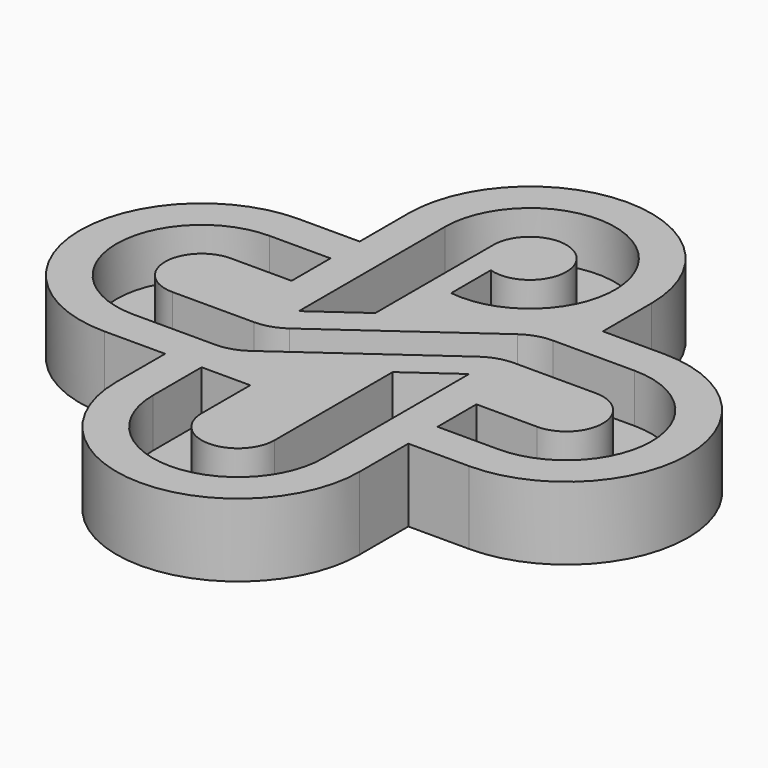
from build123d import *

# Parameters (mm, degrees)
PAD_DEPTH    = 3
POCKET_DEPTH = 2
FILLET_R     = 2
FILLET001_R  = 2
FILLET002_R  = 2
FILLET003_R  = 2


with BuildPart() as part:
    # Sketch → Pad (new body)
    with BuildSketch(Plane.XY):
        with BuildLine():
            ThreePointArc((5.000007, 7.500007), (0, 12.500023), (-5.000007, 7.500007))
            Line((-5.000007, 7.500007), (-5.000007, 5.000007))
            Line((-5.000007, 5.000007), (-7.500007, 5.000007))
            ThreePointArc((-7.500007, 5.000007), (-12.499997, 0), (-7.500007, -5.000007))
            Line((-7.500007, -5.000007), (-5.000007, -5.000007))
            Line((-5.000007, -5.000007), (-5.000007, -7.500007))
            ThreePointArc((-5.000007, -7.500007), (0, -12.500013), (5.000007, -7.500007))
            Line((5.000007, -7.500007), (5.000007, -5.000007))
            Line((5.000007, -5.000007), (7.500007, -5.000007))
            ThreePointArc((7.500007, -5.000007), (12.500003, 0), (7.500007, 5.000007))
            Line((5.000007, 5.000007), (7.500007, 5.000007))
            Line((5.000007, 7.500007), (5.000007, 5.000007))
        make_face()
    extrude(amount=PAD_DEPTH)

    # Sketch001 → Pocket (cut)
    with BuildSketch(Plane.XY.offset(3)):
        with BuildLine():
            ThreePointArc((-7.500007, 3.500007), (-10.999997, 0), (-7.500007, -3.500007))
            Line((-7.500007, -3.500007), (-3.500007, -3.500007))
            Line((-3.500007, -3.500007), (3.500007, 1.500007))
            Line((3.500007, 1.500007), (7.500007, 1.500007))
            ThreePointArc((7.499986, -1.500007), (9.000003, -1e-05), (7.500007, 1.500007))
            Line((7.499986, -1.500007), (5.000007, -1.500007))
            Line((5.000007, -1.500007), (5.000007, -3.500007))
            Line((5.000007, -3.500007), (7.499986, -3.500007))
            ThreePointArc((7.499986, -3.500007), (11.000003, -1e-05), (7.500007, 3.500007))
            Line((7.500007, 3.500007), (3.500007, 3.500007))
            Line((3.500007, 3.500007), (-3.500007, -1.500007))
            Line((-3.500007, -1.500007), (-7.500007, -1.500007))
            ThreePointArc((-7.500007, 1.500007), (-8.999997, 0), (-7.500007, -1.500007))
            Line((-7.500007, 1.500007), (-5.000007, 1.500007))
            Line((-5.000007, 3.500007), (-5.000007, 1.500007))
            Line((-7.500007, 3.500007), (-5.000007, 3.500007))
        make_face()
        with BuildLine():
            Line((-3.500007, -5.000007), (-3.500007, -7.500007))
            ThreePointArc((-3.500007, -7.500007), (0, -11.000013), (3.500007, -7.500007))
            Line((3.500007, -7.500007), (3.500007, 0))
            Line((3.500007, 0), (1.500007, -1.428573))
            Line((1.500007, -1.428573), (1.500007, -7.500007))
            ThreePointArc((-1.500007, -7.500007), (0, -9.000013), (1.500007, -7.500007))
            Line((-1.500007, -7.500007), (-1.500007, -5.000007))
            Line((-3.500007, -5.000007), (-1.500007, -5.000007))
        make_face()
        with BuildLine():
            ThreePointArc((-0.464101, 4.030917), (2.633854, 9.804981), (-3.500007, 7.50001))
            Line((-3.500007, 7.50001), (-3.500007, 0))
            Line((-3.500007, 0), (-1.500007, 1.428573))
            Line((-1.500007, 1.428573), (-1.500007, 7.500014))
            ThreePointArc((-0.464101, 6.073612), (1.213707, 8.381456), (-1.500007, 7.500014))
            Line((-0.464101, 6.073612), (-0.464101, 4.030917))
        make_face()
    extrude(amount=-POCKET_DEPTH, mode=Mode.SUBTRACT)

    # Fillet
    fillet_edges = [part.edges().sort_by_distance(p)[0] for p in [
        (3.500007, 3.500007, 2),
    ]]
    fillet(fillet_edges, radius=FILLET_R)

    # Fillet001
    fillet001_edges = [part.edges().sort_by_distance(p)[0] for p in [
        (-3.500007, -1.500007, 2),
    ]]
    fillet(fillet001_edges, radius=FILLET001_R)

    # Fillet002
    fillet002_edges = [part.edges().sort_by_distance(p)[0] for p in [
        (3.500007, 1.500007, 2),
    ]]
    fillet(fillet002_edges, radius=FILLET002_R)

    # Fillet003
    fillet003_edges = [part.edges().sort_by_distance(p)[0] for p in [
        (-3.500007, -3.500007, 2),
    ]]
    fillet(fillet003_edges, radius=FILLET003_R)


solid = part.part
